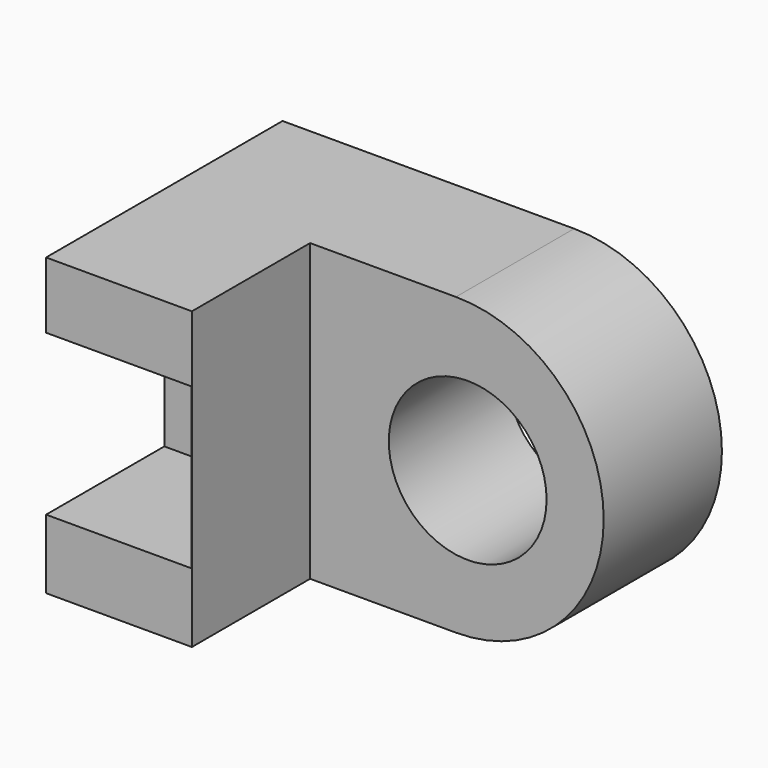
from build123d import *

# Parameters (mm, degrees)
F0_W     = 38.1
F0_H     = 25.4
F1_DEPTH = 12.7
F3_DEPTH = 25.401
F4_W     = 12.529509142
F4_H     = 12.7
F4_W_2   = 13.1820067763
F5_DEPTH = 25.401
F6_W     = 12.4995596707
F6_H     = 13.7623953633
F7_DEPTH = 12.7
F8_R     = 6.780247306
F9_DEPTH = 12.701


with BuildPart() as f1:
    # F0 (on Front) → F1 (new body, symmetric)
    with BuildSketch(Plane.XZ):
        with Locations((19.05, 12.7)):
            Rectangle(F0_W, F0_H)
    extrude(amount=F1_DEPTH, both=True)

    # F2 (on face) → F3 (cut, through all)
    with BuildSketch(Plane.XZ.offset(12.7)):
        with BuildLine():
            Line((38.1, 25.4), (25.0590182841, 25.4))
            ThreePointArc((25.0590182841, 25.4), (37.7590182841, 12.7), (25.0590182841, 0))
            Line((25.0590182841, 0), (38.1, 0))
            Line((38.1, 0), (38.1, 25.4))
        make_face()
    extrude(amount=-F3_DEPTH, mode=Mode.SUBTRACT)

    # F4 (on face) → F5 (cut, through all)
    with BuildSketch(Plane.XY.offset(25.4)):
        with Locations((18.7942637131, -6.35)):
            Rectangle(F4_W, F4_H)
        with Locations((31.6500216722, -6.35)):
            Rectangle(F4_W_2, F4_H)
    extrude(amount=-F5_DEPTH, mode=Mode.SUBTRACT)

    # F6 (on face) → F7 (cut)
    with BuildSketch(Plane.XZ.offset(12.7)):
        with Locations((6.2497798353, 12.8240382764)):
            Rectangle(F6_W, F6_H)
    extrude(amount=-F7_DEPTH, mode=Mode.SUBTRACT)

    # F8 (on face) → F9 (cut, through all)
    with BuildSketch(Plane.XZ):
        with Locations((26.0712560266, 12.6046799123)):
            Circle(F8_R)
    extrude(amount=-F9_DEPTH, mode=Mode.SUBTRACT)


solid = f1.part
